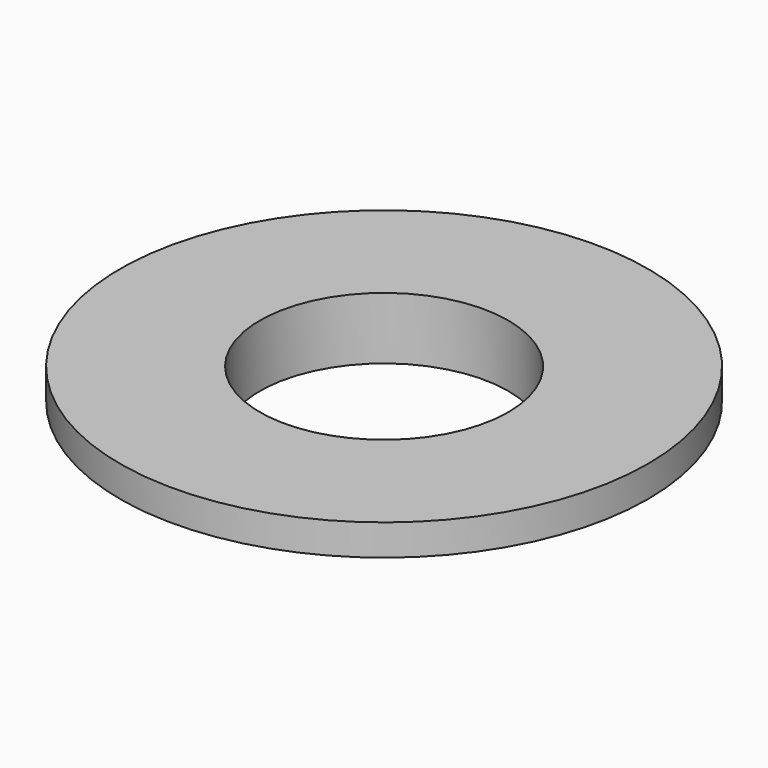
from build123d import *

# Parameters (mm, degrees)
SKETCH_R     = 8.5
PAD_DEPTH    = 1
SKETCH001_R  = 5.35
PAD001_DEPTH = 1
SKETCH002_R  = 4
POCKET_DEPTH = 2.5


with BuildPart() as part:
    # Sketch → Pad (new body)
    with BuildSketch(Plane.XY):
        Circle(SKETCH_R)
    extrude(amount=PAD_DEPTH)

    # Sketch001 → Pad001 (join)
    with BuildSketch(Plane.XY):
        Circle(SKETCH001_R)
    extrude(amount=-PAD001_DEPTH)

    # Sketch002 → Pocket (cut, symmetric)
    with BuildSketch(Plane.XY):
        Circle(SKETCH002_R)
    extrude(amount=POCKET_DEPTH, both=True, mode=Mode.SUBTRACT)


solid = part.part
